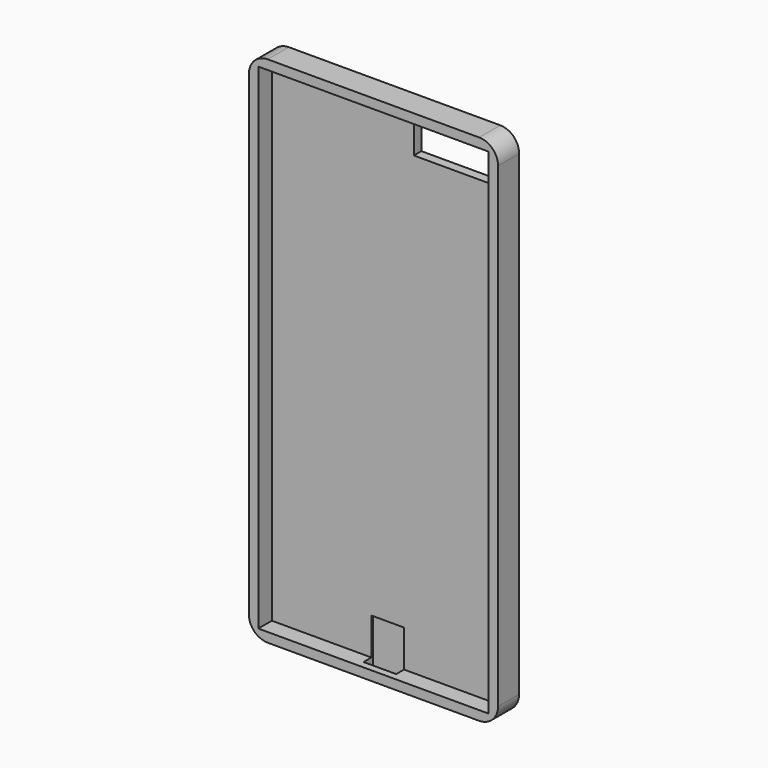
from build123d import *

# Parameters (mm, degrees)
F0_W     = 67.1
F0_H     = 138.3
F1_DEPTH = 3.55
F2_T     = -2.54
F3_R     = 5.08
F4_W     = 20.894948
F4_H     = 9.035654
F5_DEPTH = 12.5
F6_W     = 8.791138
F6_H     = 3.129049
F7_DEPTH = 12.5


with BuildPart() as f1:
    # F0 (on Front) → F1 (new body, symmetric)
    with BuildSketch(Plane.XZ):
        Rectangle(F0_W, F0_H)
    extrude(amount=F1_DEPTH, both=True)

    # F2
    f2_openings = [f1.faces().sort_by_distance(p)[0] for p in [
        (0, -3.55, 0),
    ]]
    offset(amount=F2_T, openings=f2_openings)

    # F3
    f3_edges = [f1.edges().sort_by_distance(p)[0] for p in [
        (-33.55, 0, -69.15),
        (-33.55, 0, 69.15),
        (33.55, 0, 69.15),
        (33.55, 0, -69.15),
    ]]
    fillet(f3_edges, radius=F3_R)

    # F4 (on Front) → F5 (cut, symmetric)
    with BuildSketch(Plane.XZ):
        with Locations((17.661508, 60.631018)):
            Rectangle(F4_W, F4_H)
    extrude(amount=F5_DEPTH, both=True, mode=Mode.SUBTRACT)

    # F6 (on face) → F7 (cut, symmetric)
    with BuildSketch(Plane(origin=(0, 0, -69.15), x_dir=(1, 0, 0), z_dir=(0, 0, -1))):
        with Locations((0.192333, 0.072404)):
            Rectangle(F6_W, F6_H)
    extrude(amount=F7_DEPTH, both=True, mode=Mode.SUBTRACT)


solid = f1.part
